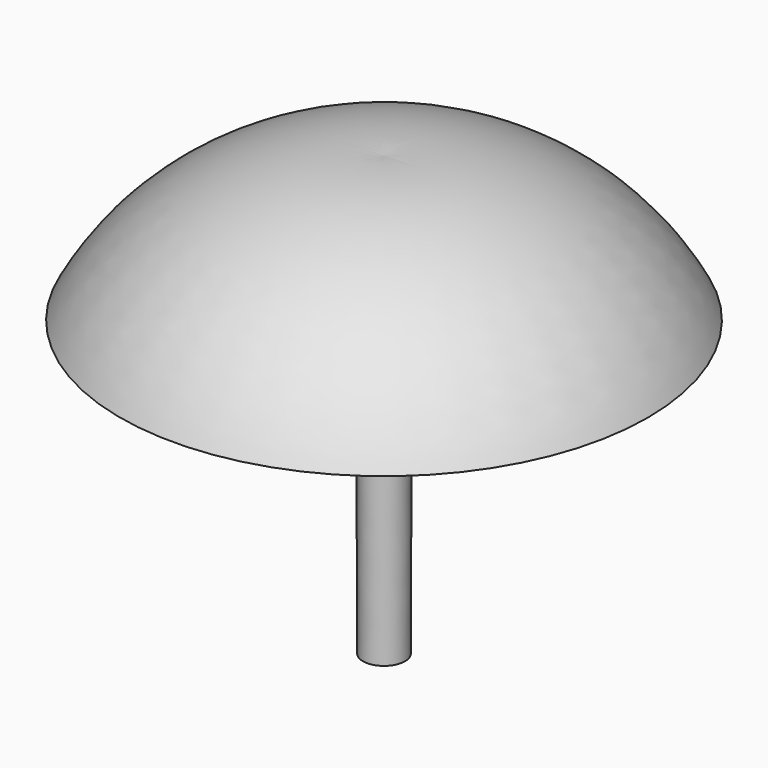
from build123d import *


with BuildPart() as f1:
    # F0 (on Front) → F1 (revolve)
    with BuildSketch(Plane.XZ):
        with BuildLine():
            Line((45.662872, 26.328221), (49.188461, 26.328221))
            ThreePointArc((49.188461, 26.328221), (28.646797, 47.219512), (0, 53.365))
            Line((0, 53.365), (0, 26.328221))
            Line((0, 26.328221), (0, -28.374096))
            Line((0, -28.374096), (3.917576, -28.374096))
            Line((3.917576, -28.374096), (4.073464, 26.328221))
            Line((4.073464, 26.328221), (4.073464, 51.49814))
            ThreePointArc((4.073464, 51.49814), (28.20768, 44.431208), (45.662872, 26.328221))
        make_face()
    revolve(axis=Axis((0, 0, -2.393954), (0, 0, -1)))


solid = f1.part
